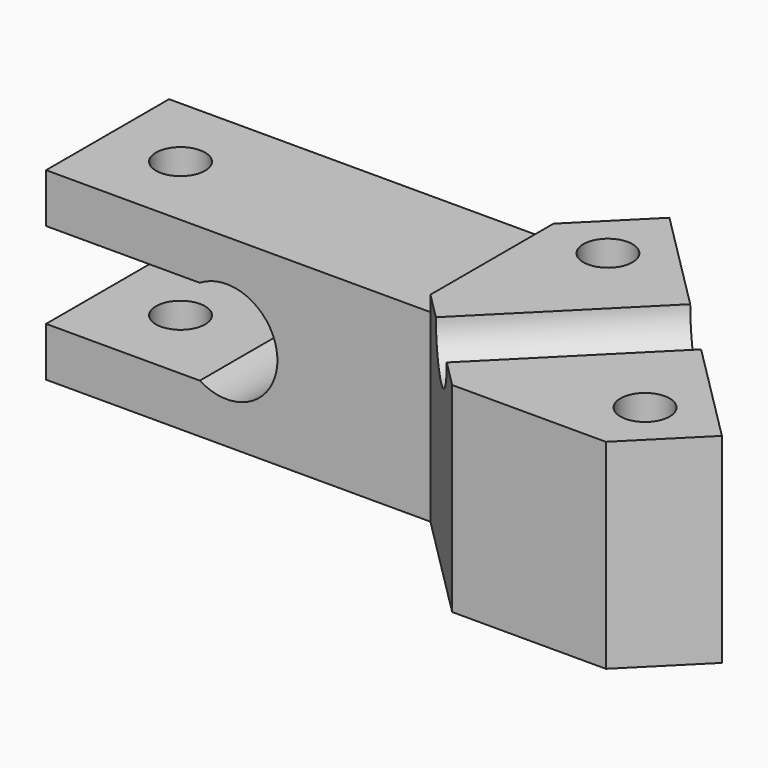
from build123d import *

# Parameters (mm, degrees)
PAD_DEPTH            = 10
SKETCH_R             = 1.6
PAD001_DEPTH         = 7
PAD001_DEPTH_BACK    = 6
SKETCH004_R          = 2.5
POCKET_DEPTH         = 27.372693
POCKET001_DEPTH      = 2
SKETCH006_R          = 1.6
POCKET002_DEPTH      = 6.001
POCKET002_DEPTH_BACK = -7.001


with BuildPart() as part:
    # Sketch003 → Pad (new body)
    with BuildSketch(Plane.XZ):
        with BuildLine():
            Line((13.253575, -6), (-11.746425, -6))
            Line((-11.746425, -2.8), (-11.746425, -6))
            Line((-1.746425, -2.8), (-11.746425, -2.8))
            ThreePointArc((-1.746425, -2.8), (3.3, 0), (-1.746425, 2.8))
            Line((-1.746425, 2.8), (-11.746425, 2.8))
            Line((-11.746425, 2.8), (-11.746425, 6))
            Line((13.253575, 6), (-11.746425, 6))
            Line((13.253575, 6), (13.253575, 0))
            Line((13.253575, 0), (13.253575, -6))
        make_face()
    extrude(amount=PAD_DEPTH)

    # Sketch → Pad001 (join, two sides)
    with BuildSketch(Plane.XY) as pad001_sk:
        Polygon((13.253575, -10), (20.324643, -17.071068), (30.324643, -17.071068), (34.517031, -12.87868), (17.445963, 4.192388), (13.253575, 0), align=None)
        with Locations((17.445963, -0.807612)):
            Circle(SKETCH_R, mode=Mode.SUBTRACT)
        with Locations((29.517031, -12.87868)):
            Circle(SKETCH_R, mode=Mode.SUBTRACT)
    extrude(amount=PAD001_DEPTH)
    extrude(pad001_sk.sketch, amount=-PAD001_DEPTH_BACK)

    # Sketch004 (on DatumPlane) → Pocket (cut, through all)
    with BuildSketch(Plane(origin=(0, 0, 3.5), x_dir=(0, 0, -1), z_dir=(-0.707107, -0.707107, 0))):
        with Locations((-3.5, 21.442761)):
            Circle(SKETCH004_R)
    extrude(amount=-POCKET_DEPTH, mode=Mode.SUBTRACT)

    # Sketch005 (on DatumPlane) → Pocket001 (cut)
    with BuildSketch(Plane.XY.offset(-6)):
        Polygon((18.267824, -3.874838), (20.51319, -1.629473), (19.691329, 1.437754), (16.624102, 2.259615), (14.378737, 0.014249), (15.200598, -3.052977), align=None)
        Polygon((30.338892, -15.945906), (32.584257, -13.700541), (31.762397, -10.633314), (28.69517, -9.811453), (26.449805, -12.056819), (27.271665, -15.124045), align=None)
    extrude(amount=POCKET001_DEPTH, mode=Mode.SUBTRACT)

    # Sketch006 → Pocket002 (cut, two sides)
    with BuildSketch(Plane.XY) as pocket002_sk:
        with Locations((-7, -5)):
            Circle(SKETCH006_R)
    extrude(amount=-POCKET002_DEPTH, mode=Mode.SUBTRACT)
    extrude(pocket002_sk.sketch, amount=-POCKET002_DEPTH_BACK, mode=Mode.SUBTRACT)


solid = part.part
